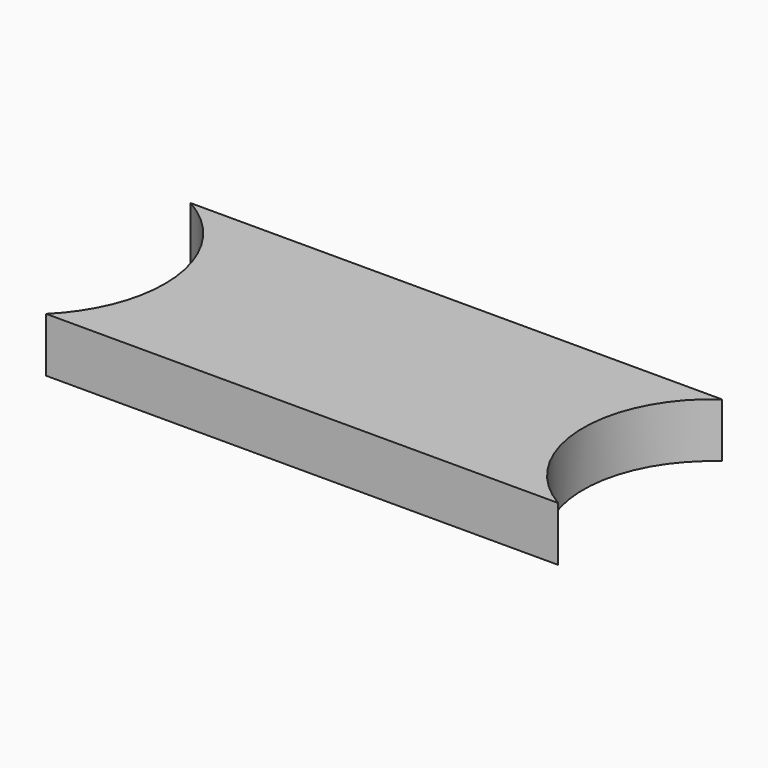
from build123d import *

# Parameters (mm, degrees)
F1_DEPTH = 8.128


with BuildPart() as f1:
    # F0 (on Top) → F1 (new body)
    with BuildSketch(Plane.XY):
        with BuildLine():
            Line((44.7501632803, 7.6402998529), (-34.5086551672, 7.6402998529))
            ThreePointArc((-34.5086551672, 7.6402998529), (-26.9170053498, 0.1393697206), (-24.1341728175, -10.1636853069))
            ThreePointArc((-24.1341728175, -10.1636853069), (-25.712533615, -18.0445914867), (-30.2041451594, -24.7098244727))
            Line((-30.2041451594, -24.7098244727), (46.2008027514, -24.7098244727))
            ThreePointArc((46.2008027514, -24.7098244727), (36.6416367841, -8.9308883308), (44.7501632803, 7.6402998529))
        make_face()
    extrude(amount=F1_DEPTH)


solid = f1.part
